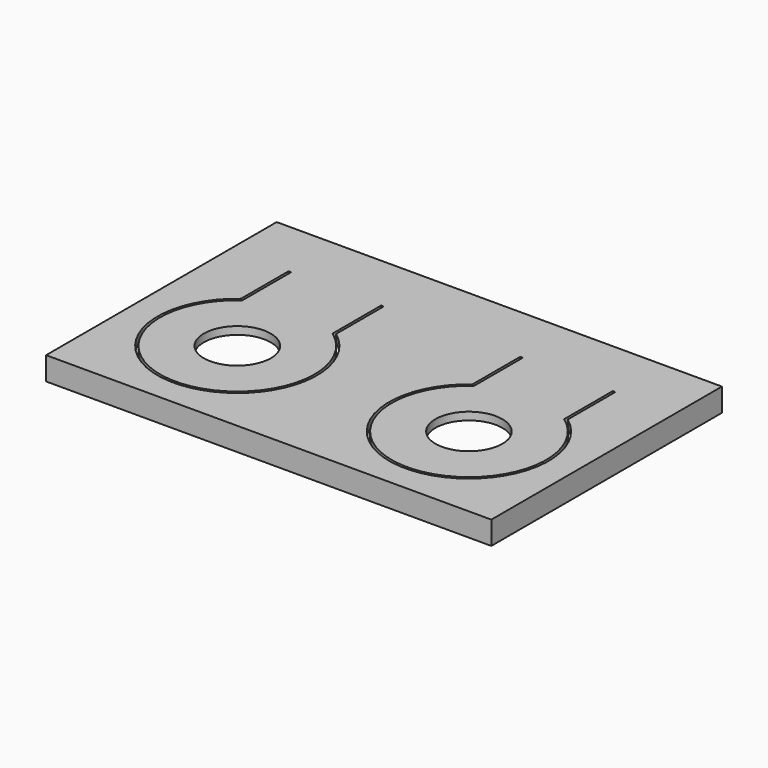
from build123d import *

# Parameters (mm, degrees)
SKETCH002_W           = 173
SKETCH002_H           = 112
SKETCH002_W_2         = 167
SKETCH002_H_2         = 106
EXTRUDE001_DEPTH      = 3
EXTRUDE001_DEPTH_BACK = 6
SKETCH_W              = 167
SKETCH_H              = 106
SKETCH_R              = 13
EXTRUDE_DEPTH         = 3


with BuildPart() as notch:
    # Sketch002 → Extrude001 (new body, two sides)
    with BuildSketch(Plane.XY) as extrude001_sk:
        Rectangle(SKETCH002_W, SKETCH002_H)
        Rectangle(SKETCH002_W_2, SKETCH002_H_2, mode=Mode.SUBTRACT)
    extrude(amount=EXTRUDE001_DEPTH)
    extrude(extrude001_sk.sketch, amount=-EXTRUDE001_DEPTH_BACK)


with BuildPart() as lid:
    # Sketch → Extrude (new body)
    with BuildSketch(Plane.XY):
        Rectangle(SKETCH_W, SKETCH_H)
        with Locations((-45, -15)):
            Circle(SKETCH_R, mode=Mode.SUBTRACT)
        with Locations((45, -15)):
            Circle(SKETCH_R, mode=Mode.SUBTRACT)
        with BuildLine():
            Line((-27.5, 9.366986), (-27.5, 33))
            Line((-27.5, 33), (-26.5, 33))
            Line((-26.5, 33), (-26.5, 9.874686))
            ThreePointArc((-63.5, 9.874686), (-45, -46), (-26.5, 9.874686))
            Line((-63.5, 9.874686), (-63.5, 33))
            Line((-63.5, 33), (-62.5, 33))
            Line((-62.5, 33), (-62.5, 9.366986))
            ThreePointArc((-62.5, 9.366986), (-45, -45), (-27.5, 9.366986))
        make_face(mode=Mode.SUBTRACT)
        with BuildLine():
            Line((27.5, 9.366986), (27.5, 33))
            Line((27.5, 33), (26.5, 33))
            Line((26.5, 33), (26.5, 9.874686))
            ThreePointArc((26.5, 9.874686), (45, -46), (63.5, 9.874686))
            Line((63.5, 9.874686), (63.5, 33))
            Line((63.5, 33), (62.5, 33))
            Line((62.5, 33), (62.5, 9.366986))
            ThreePointArc((27.5, 9.366986), (45, -45), (62.5, 9.366986))
        make_face(mode=Mode.SUBTRACT)
    extrude(amount=EXTRUDE_DEPTH)

    # Fusion001: union Notch
    add(notch.part)


solid = lid.part
